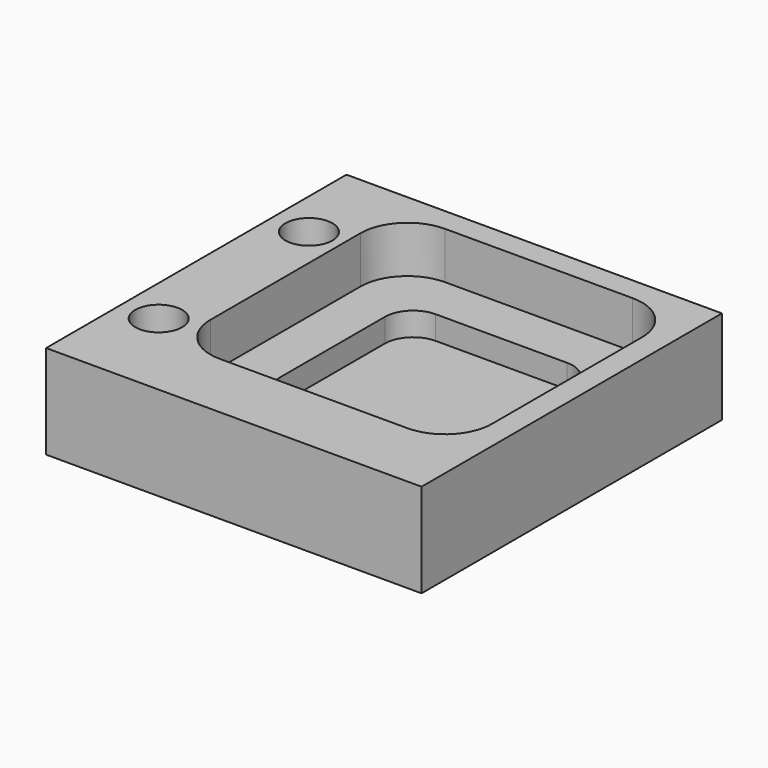
from build123d import *

# Parameters (mm, degrees)
F0_W     = 80
F0_H     = 80
F1_DEPTH = 20
F3_D     = 10
F3_DEPTH = 15
F3_TIP   = 3.0043030951
F5_DEPTH = 10
F6_DEPTH = 15


with BuildPart() as f1:
    # F0 (on Top) → F1 (new body)
    with BuildSketch(Plane.XY):
        Rectangle(F0_W, F0_H)
    extrude(amount=F1_DEPTH)

    # F3
    with Locations(Plane.XY.offset(20)):
        with Locations((-32, 20), (-32, -20)):
            Hole(F3_D / 2, depth=F3_DEPTH)
            with Locations((0, 0, -(F3_DEPTH + F3_TIP / 2))):  # 118° drill point
                Cone(0, F3_D / 2, F3_TIP, mode=Mode.SUBTRACT)

    # F4 (on face) → F5 (cut)
    with BuildSketch(Plane.XY.offset(20)):
        with BuildLine():
            Line((25, 35), (-15, 35))
            ThreePointArc((-15, 35), (-22.0710678119, 32.0710678119), (-25, 25))
            Line((-25, 25), (-25, -15))
            ThreePointArc((-25, -15), (-22.0710678119, -22.0710678119), (-15, -25))
            Line((-15, -25), (25, -25))
            ThreePointArc((25, -25), (32.0710678119, -22.0710678119), (35, -15))
            Line((35, -15), (35, 25))
            ThreePointArc((35, 25), (32.0710678119, 32.0710678119), (25, 35))
        make_face()
        with BuildLine():
            ThreePointArc((-15, 19), (-13.2426406871, 23.2426406871), (-9, 25))
            Line((-9, 25), (19, 25))
            ThreePointArc((19, 25), (23.2426406871, 23.2426406871), (25, 19))
            Line((25, 19), (25, -9))
            ThreePointArc((25, -9), (23.2426406871, -13.2426406871), (19, -15))
            Line((19, -15), (-9, -15))
            ThreePointArc((-9, -15), (-13.2426406871, -13.2426406871), (-15, -9))
            Line((-15, -9), (-15, 19))
        make_face(mode=Mode.SUBTRACT)
    extrude(amount=-F5_DEPTH, mode=Mode.SUBTRACT)

    # F6 (cut): a face of the model
    f6_faces = [f1.faces().sort_by_distance(p)[0] for p in [
        (5, 5, 20),
    ]]
    extrude(f6_faces, amount=-F6_DEPTH, mode=Mode.SUBTRACT)


solid = f1.part
